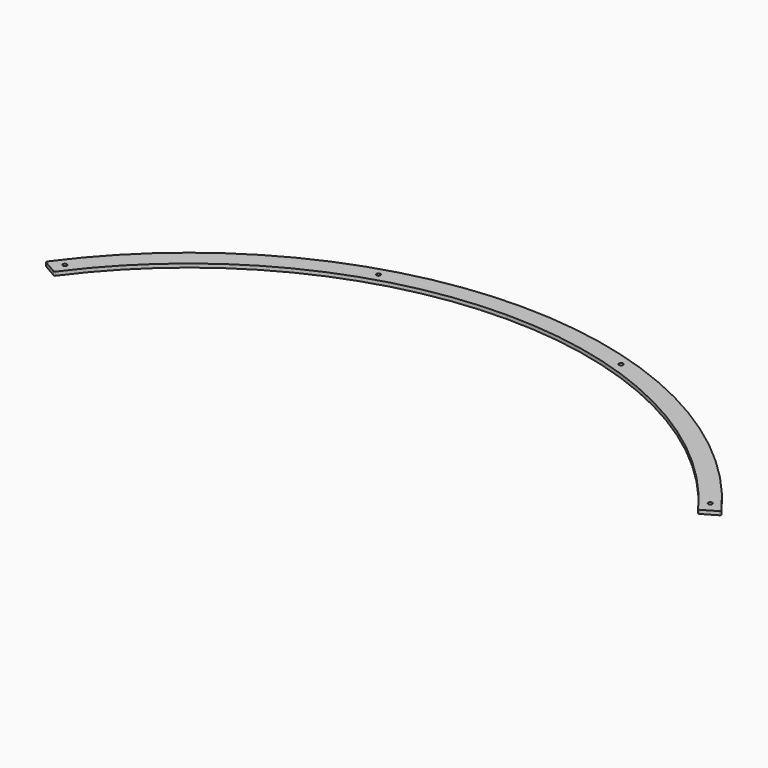
from build123d import *

# Parameters (mm, degrees)
PAD004_DEPTH         = 3
SKETCH053_R          = 1.7
POCKET024_DEPTH      = 0.001
POCKET024_DEPTH_BACK = 3.001


with BuildPart() as part:
    # Sketch052 → Pad004 (new body)
    with BuildSketch(Plane.XY):
        with BuildLine():
            ThreePointArc((276.917507, 200.990417), (155.4148, 304.8388), (0, 342.170212))
            Line((0, 327.170212), (0, 342.170212))
            ThreePointArc((263.979122, 193.275376), (147.9973, 291.782704), (0, 327.170212))
            ThreePointArc((263.979122, 193.275376), (264.57986, 192.887597), (265.285977, 193.000099))
            Line((265.285977, 193.000099), (276.60821, 199.536993))
            ThreePointArc((276.60821, 199.536993), (277.086308, 200.194873), (276.917507, 200.990417))
        make_face()
    pad004 = extrude(amount=PAD004_DEPTH)

    # Mirrored009: Pad004 across Sketch052 V_Axis
    add(pad004.mirror(Plane(origin=(0, 0, 0), x_dir=(0, 0, 1), z_dir=(1, 0, 0))))

    # Sketch053 → Pocket024 (cut, two sides)
    with BuildSketch(Plane.XY) as pocket024_sk:
        with Locations((99.631602, 319.496001)):
            Circle(SKETCH053_R)
        with Locations((265.05233, 204.331625)):
            Circle(SKETCH053_R)
        with Locations((-99.631602, 319.496001)):
            Circle(SKETCH053_R)
        with Locations((-265.05233, 204.331625)):
            Circle(SKETCH053_R)
    extrude(amount=-POCKET024_DEPTH, mode=Mode.SUBTRACT)
    extrude(pocket024_sk.sketch, amount=POCKET024_DEPTH_BACK, mode=Mode.SUBTRACT)


solid = part.part
